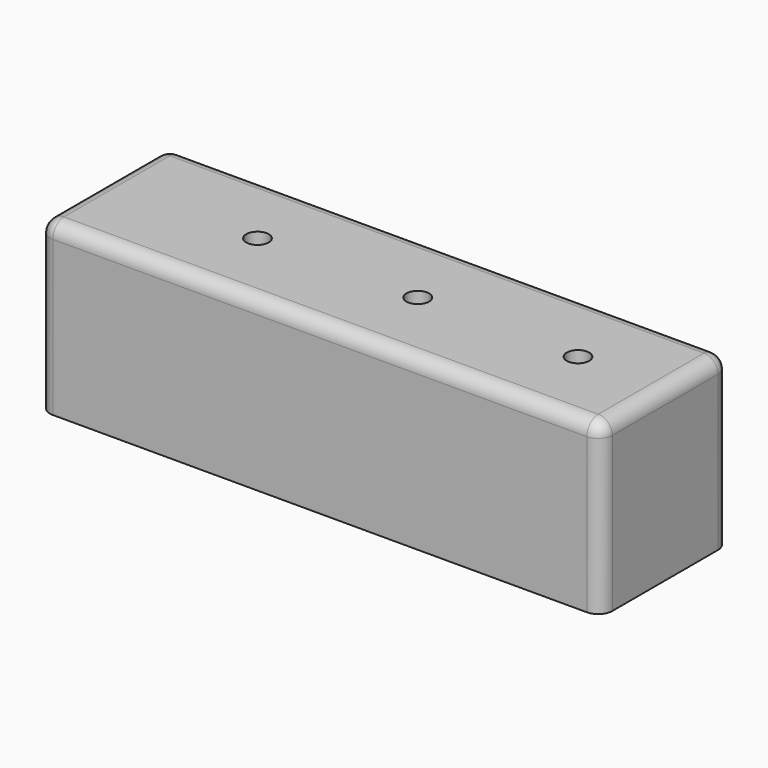
from build123d import *

# Parameters (mm, degrees)
F0_W     = 200
F0_H     = 57
F0_R     = 4
F1_DEPTH = 60
F2_R     = 5


with BuildPart() as f1:
    # F0 (on Top) → F1 (new body)
    with BuildSketch(Plane.XY):
        with Locations((100, 28.5)):
            Rectangle(F0_W, F0_H)
        with Locations((55, 28.5)):
            Circle(F0_R, mode=Mode.SUBTRACT)
        with Locations((112, 28.5)):
            Circle(F0_R, mode=Mode.SUBTRACT)
        with Locations((169, 28.5)):
            Circle(F0_R, mode=Mode.SUBTRACT)
    extrude(amount=F1_DEPTH)

    # F2
    f2_edges = [f1.edges().sort_by_distance(p)[0] for p in [
        (0, 0, 30),
        (100, 0, 60),
        (0, 28.5, 60),
        (100, 57, 60),
        (200, 28.5, 60),
        (200, 0, 30),
        (200, 57, 30),
        (0, 57, 30),
    ]]
    fillet(f2_edges, radius=F2_R)


solid = f1.part
